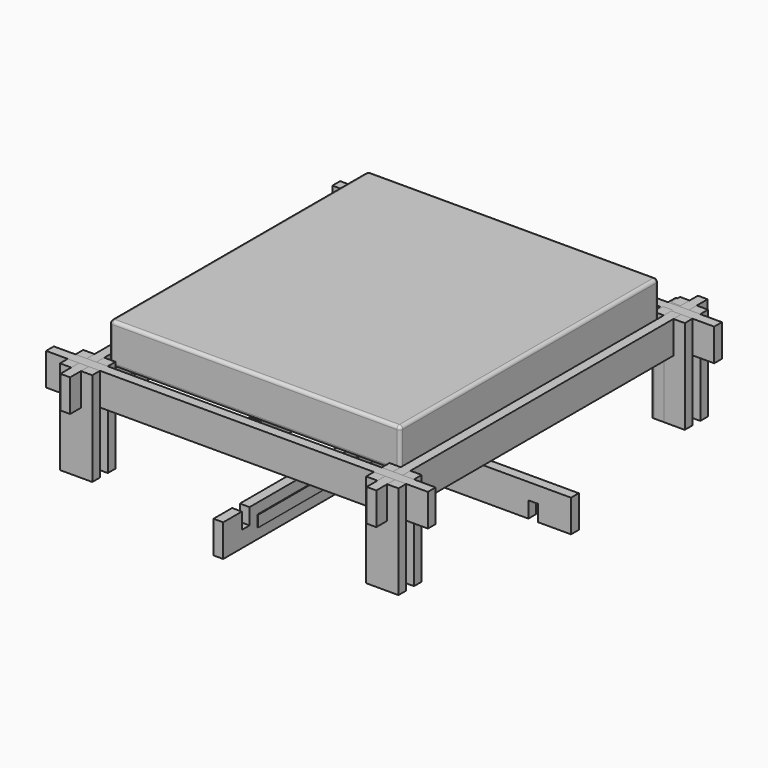
from build123d import *

# Parameters (mm, degrees)
BOX_W                    = 1800
BOX_H                    = 2000
BOX_DEPTH                = 250
FILLET_R                 = 20
SKETCH007_W              = 35
SKETCH007_H              = 85
PAD006_DEPTH             = 1000
SKETCH008_W              = 60
SKETCH008_H              = 482
PAD008_DEPTH             = 100
PAD012_DEPTH             = 30
CLONE031_PLACEMENT_ANGLE = 90
CLONE032_PLACEMENT_ANGLE = 90
CLONE033_PLACEMENT_ANGLE = 90
CLONE034_PLACEMENT_ANGLE = 90
CLONE035_PLACEMENT_ANGLE = -90
CLONE036_PLACEMENT_ANGLE = -90
CLONE037_PLACEMENT_ANGLE = -90
CLONE038_PLACEMENT_ANGLE = -90
PAD013_DEPTH             = 30
PAD014_DEPTH             = 30
SKETCH_W                 = 70
SKETCH_H                 = 70
PAD_DEPTH                = 1018


with BuildPart() as fillet_body:
    # Box → Box (new body)
    with BuildSketch(Plane(origin=(-900, -1000, 537), x_dir=(1, 0, 0), z_dir=(0, 0, 1))):
        with Locations((900, 1000)):
            Rectangle(BOX_W, BOX_H)
    extrude(amount=BOX_DEPTH)

    # Fillet
    fillet_edges = [fillet_body.edges().sort_by_distance(p)[0] for p in [
        (0, -1000, 787),
        (-900, -1000, 662),
        (-900, 0, 787),
        (-900, 0, 537),
        (0, -1000, 537),
        (900, -1000, 662),
        (900, 0, 787),
        (900, 0, 537),
        (900, 1000, 662),
        (0, 1000, 787),
        (0, 1000, 537),
        (-900, 1000, 662),
    ]]
    fillet(fillet_edges, radius=FILLET_R)


with BuildPart() as slat_format:
    # Sketch007 → Pad006 (new body, symmetric)
    with BuildSketch(Plane.XZ):
        Rectangle(SKETCH007_W, SKETCH007_H)
    extrude(amount=PAD006_DEPTH, both=True)


with BuildPart() as right:
    # Clone005 base: copy of Slat Format
    add(slat_format.part)


with BuildPart() as right_1:
    # Clone005 placement: moved
    add(right.part.moved(Location((17.5, 0, 494.5))))


with BuildPart() as left:
    # Clone006 base: copy of Slat Format
    add(slat_format.part)


with BuildPart() as left_1:
    # Clone006 placement: moved
    add(left.part.moved(Location((-17.5, 0, 494.5))))


with BuildPart() as obj1:
    # Clone007 base: copy of Slat Format
    add(slat_format.part)


with BuildPart() as obj1_1:
    # Clone007 placement: moved
    add(obj1.part.moved(Location((882.5, 0, 494.5))))


with BuildPart() as obj2:
    # Clone008 base: copy of Slat Format
    add(slat_format.part)


with BuildPart() as obj2_1:
    # Clone008 placement: moved
    add(obj2.part.moved(Location((-882.5, 0, 494.5))))


with BuildPart() as pillar_format:
    # Sketch008 → Pad008 (new body, symmetric)
    with BuildSketch(Plane.XZ):
        Rectangle(SKETCH008_W, SKETCH008_H)
    extrude(amount=PAD008_DEPTH, both=True)


with BuildPart() as framed_corner_pillar_format:
    # Sketch012 → Pad012 (new body, symmetric)
    with BuildSketch(Plane.YZ):
        Polygon((-100, 291), (-100, -291), (100, -291), (100, 291), (30, 291), (30, 91), (-30, 91), (-30, 291), align=None)
    extrude(amount=PAD012_DEPTH, both=True)


with BuildPart() as outer_top_right_main_pillar:
    # Clone031 base: copy of Framed Corner Pillar Format
    add(framed_corner_pillar_format.part)


with BuildPart() as outer_top_right_main_pillar_1:
    # Clone031 placement: moved
    add(outer_top_right_main_pillar.part.moved(Location((948, 1168, 291))).rotate(Axis((948, 1168, 291), (0, 0, 1)), CLONE031_PLACEMENT_ANGLE))


with BuildPart() as inner_top_right_main_pillar:
    # Clone032 base: copy of Framed Corner Pillar Format
    add(framed_corner_pillar_format.part)


with BuildPart() as inner_top_right_main_pillar_1:
    # Clone032 placement: moved
    add(inner_top_right_main_pillar.part.moved(Location((948, 1048, 291))).rotate(Axis((948, 1048, 291), (0, 0, 1)), CLONE032_PLACEMENT_ANGLE))


with BuildPart() as inner_bottom_right_main_pillar:
    # Clone033 base: copy of Framed Corner Pillar Format
    add(framed_corner_pillar_format.part)


with BuildPart() as inner_bottom_right_main_pillar_1:
    # Clone033 placement: moved
    add(inner_bottom_right_main_pillar.part.moved(Location((948, -1048, 291))).rotate(Axis((948, -1048, 291), (0, 0, 1)), CLONE033_PLACEMENT_ANGLE))


with BuildPart() as outer_bottom_right_main_pillar:
    # Clone034 base: copy of Framed Corner Pillar Format
    add(framed_corner_pillar_format.part)


with BuildPart() as outer_bottom_right_main_pillar_1:
    # Clone034 placement: moved
    add(outer_bottom_right_main_pillar.part.moved(Location((948, -1168, 291))).rotate(Axis((948, -1168, 291), (0, 0, 1)), CLONE034_PLACEMENT_ANGLE))


with BuildPart() as outer_top_left_main_pillar:
    # Clone035 base: copy of Framed Corner Pillar Format
    add(framed_corner_pillar_format.part)


with BuildPart() as outer_top_left_main_pillar_1:
    # Clone035 placement: moved
    add(outer_top_left_main_pillar.part.moved(Location((-948, 1168, 291))).rotate(Axis((-948, 1168, 291), (0, 0, 1)), CLONE035_PLACEMENT_ANGLE))


with BuildPart() as inner_top_left_main_pillar:
    # Clone036 base: copy of Framed Corner Pillar Format
    add(framed_corner_pillar_format.part)


with BuildPart() as inner_top_left_main_pillar_1:
    # Clone036 placement: moved
    add(inner_top_left_main_pillar.part.moved(Location((-948, 1048, 291))).rotate(Axis((-948, 1048, 291), (0, 0, 1)), CLONE036_PLACEMENT_ANGLE))


with BuildPart() as inner_bottom_left_main_pillar:
    # Clone037 base: copy of Framed Corner Pillar Format
    add(framed_corner_pillar_format.part)


with BuildPart() as inner_bottom_left_main_pillar_1:
    # Clone037 placement: moved
    add(inner_bottom_left_main_pillar.part.moved(Location((-948, -1048, 291))).rotate(Axis((-948, -1048, 291), (0, 0, 1)), CLONE037_PLACEMENT_ANGLE))


with BuildPart() as outer_bottom_left_main_pillar:
    # Clone038 base: copy of Framed Corner Pillar Format
    add(framed_corner_pillar_format.part)


with BuildPart() as outer_bottom_left_main_pillar_1:
    # Clone038 placement: moved
    add(outer_bottom_left_main_pillar.part.moved(Location((-948, -1168, 291))).rotate(Axis((-948, -1168, 291), (0, 0, 1)), CLONE038_PLACEMENT_ANGLE))


with BuildPart() as bottom_long_beam:
    # Sketch013 → Pad013 (new body, symmetric)
    with BuildSketch(Plane.YZ):
        Polygon((-1282, -100), (1282, -100), (1282, 100), (1138, 100), (1138, 0), (1078, 0), (1078, 100), (-1078, 100), (-1078, 0), (-1138, 0), (-1138, 100), (-1282, 100), align=None)
    extrude(amount=PAD013_DEPTH, both=True)


with BuildPart() as left_long_beam:
    # Clone039 base: copy of Bottom Long Beam
    add(bottom_long_beam.part)


with BuildPart() as left_long_beam_1:
    # Clone039 placement: moved
    add(left_long_beam.part.moved(Location((-948, 0, 482))))


with BuildPart() as right_long_beam:
    # Clone040 base: copy of Bottom Long Beam
    add(bottom_long_beam.part)


with BuildPart() as right_long_beam_1:
    # Clone040 placement: moved
    add(right_long_beam.part.moved(Location((948, 0, 482))))


with BuildPart() as top_long_beam:
    # Sketch014 → Pad014 (new body, symmetric)
    with BuildSketch(Plane.XZ):
        Polygon((-1182, 100), (1182, 100), (1182, -100), (978, -100), (978, 0), (918, 0), (918, -100), (-918, -100), (-918, 0), (-978, 0), (-978, -100), (-1182, -100), align=None)
    extrude(amount=PAD014_DEPTH, both=True)


with BuildPart() as head_long_beam:
    # Clone041 base: copy of Top Long Beam
    add(top_long_beam.part)


with BuildPart() as head_long_beam_1:
    # Clone041 placement: moved
    add(head_long_beam.part.moved(Location((0, 1108, 482))))


with BuildPart() as foot_long_beam:
    # Clone042 base: copy of Top Long Beam
    add(top_long_beam.part)


with BuildPart() as foot_long_beam_1:
    # Clone042 placement: moved
    add(foot_long_beam.part.moved(Location((0, -1108, 482))))


with BuildPart() as slat_foundation:
    # Sketch → Pad (new body, symmetric)
    with BuildSketch(Plane.XZ):
        Rectangle(SKETCH_W, SKETCH_H)
    extrude(amount=PAD_DEPTH, both=True)


with BuildPart() as right_slat_foundation:
    # Clone base: copy of Slat Foundation
    add(slat_foundation.part)


with BuildPart() as right_slat_foundation_1:
    # Clone placement: moved
    add(right_slat_foundation.part.moved(Location((883, 0, 417))))


with BuildPart() as left_slat_foundation:
    # Clone043 base: copy of Slat Foundation
    add(slat_foundation.part)


with BuildPart() as left_slat_foundation_1:
    # Clone043 placement: moved
    add(left_slat_foundation.part.moved(Location((-883, 0, 417))))


with BuildPart() as center_slat_foundation:
    # Clone044 base: copy of Slat Foundation
    add(slat_foundation.part)


with BuildPart() as center_slat_foundation_1:
    # Clone044 placement: moved
    add(center_slat_foundation.part.moved(Location((0, 0, 417))))


with BuildPart() as front_right_outer:
    # Clone045 base: copy of Framed Corner Pillar Format
    add(framed_corner_pillar_format.part)


with BuildPart() as front_right_outer_1:
    # Clone045 placement: moved
    add(front_right_outer.part.moved(Location((888, 1118, 291))))


solid = Compound([fillet_body.part, slat_format.part, right_1.part, left_1.part, obj1_1.part, obj2_1.part, pillar_format.part, framed_corner_pillar_format.part, outer_top_right_main_pillar_1.part, inner_top_right_main_pillar_1.part, inner_bottom_right_main_pillar_1.part, outer_bottom_right_main_pillar_1.part, outer_top_left_main_pillar_1.part, inner_top_left_main_pillar_1.part, inner_bottom_left_main_pillar_1.part, outer_bottom_left_main_pillar_1.part, bottom_long_beam.part, left_long_beam_1.part, right_long_beam_1.part, top_long_beam.part, head_long_beam_1.part, foot_long_beam_1.part, slat_foundation.part, right_slat_foundation_1.part, left_slat_foundation_1.part, center_slat_foundation_1.part, front_right_outer_1.part])
